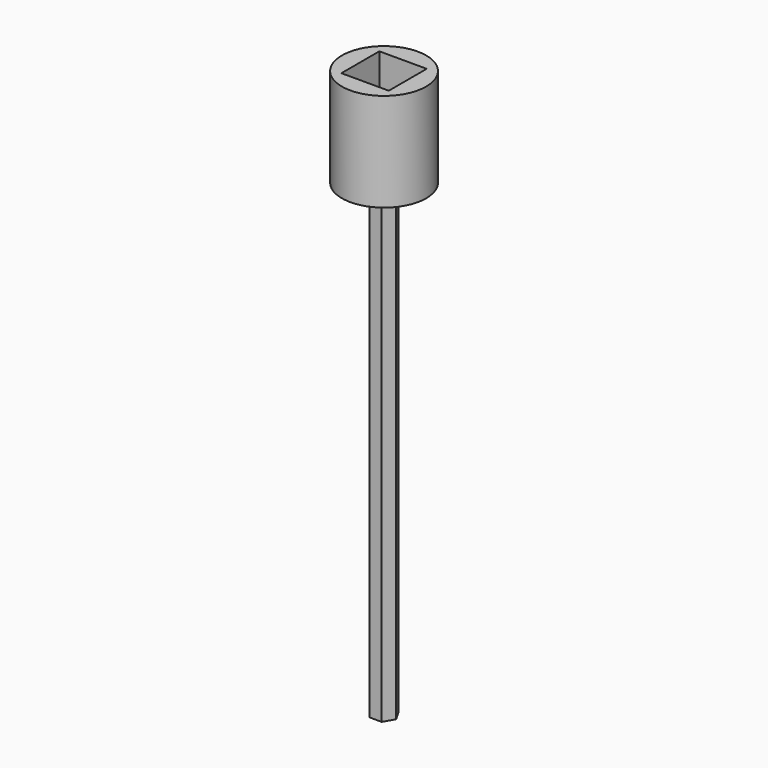
from build123d import *

# Parameters (mm, degrees)
F0_R     = 9
F1_DEPTH = 10
F2_R     = 9
F3_DEPTH = 1
F4_R     = 9
F4_W     = 10.125
F4_H     = 10.125
F5_DEPTH = 10
F7_DEPTH = 100


with BuildPart() as f1:
    # F0 (on Top) → F1 (new body)
    with BuildSketch(Plane.XY):
        Circle(F0_R)
        Polygon((-1.789786, -3.1), (-3.579572, 0), (-1.789786, 3.1), (1.789786, 3.1), (3.579572, 0), (1.789786, -3.1), align=None, mode=Mode.SUBTRACT)
    extrude(amount=F1_DEPTH)

    # F2 (on face) → F3 (join)
    with BuildSketch(Plane.XY.offset(10)):
        Circle(F2_R)
    extrude(amount=F3_DEPTH)

    # F4 (on face) → F5 (join)
    with BuildSketch(Plane.XY.offset(11)):
        Circle(F4_R)
        Rectangle(F4_W, F4_H, mode=Mode.SUBTRACT)
    extrude(amount=F5_DEPTH)


with BuildPart() as f7:
    # F6 (on face) → F7 (new body)
    with BuildSketch(Plane(origin=(0, 0, 0), x_dir=(1, 0, 0), z_dir=(0, 0, -1))):
        Polygon((-2.598076, 0), (-1.299038, -2.25), (1.299038, -2.25), (2.598076, 0), (1.299038, 2.25), (-1.299038, 2.25), align=None)
    extrude(amount=F7_DEPTH)


solid = Compound([f1.part, f7.part])
